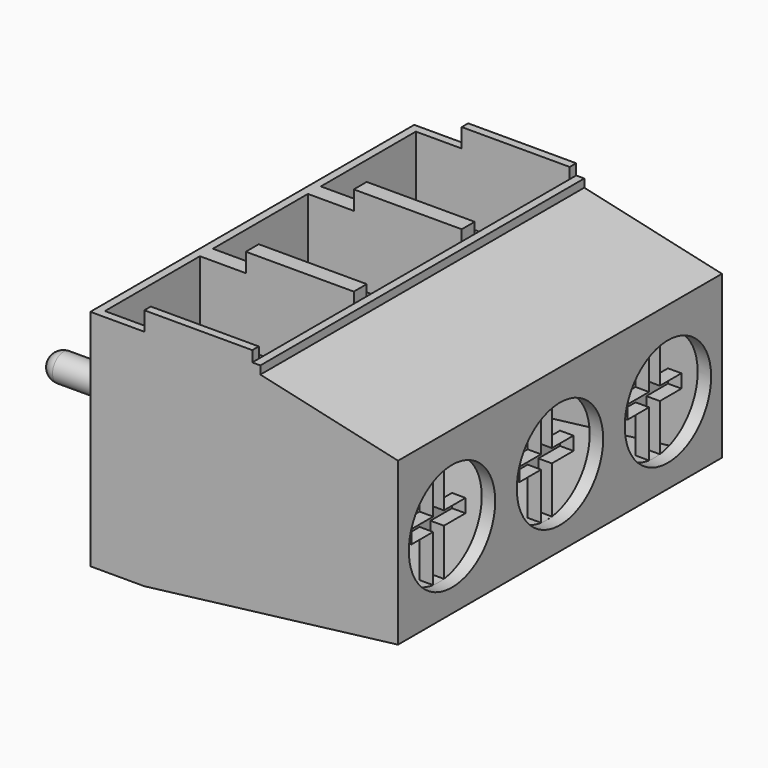
from build123d import *

# Parameters (mm, degrees)
F0_W      = 11.4
F0_H      = 15
F1_DEPTH  = 8.3
F3_DEPTH  = 15.001
F5_DEPTH  = 15
F6_W      = 5.7
F6_H      = 4.4
F7_DEPTH  = 3.2
F8_R      = 0.5
F9_DEPTH  = 3.5
F10_R     = 2
F11_DEPTH = 0.5
F13_DEPTH = 1
F14_R     = 0.5
F15_W     = 3.7
F15_H     = 3.9
F16_DEPTH = 2


with BuildPart() as f1:
    # F0 (on Top) → F1 (new body)
    with BuildSketch(Plane.XY):
        Rectangle(F0_W, F0_H)
    extrude(amount=F1_DEPTH)

    # F2 (on face) → F3 (cut, through all)
    with BuildSketch(Plane.XZ.offset(7.5)):
        Polygon((5.7, 1.15), (-3.7, 0), (5.7, 0), align=None)
        Polygon((0.6, 8.3), (5.7, 7.15), (5.7, 8.3), align=None)
    extrude(amount=-F3_DEPTH, mode=Mode.SUBTRACT)

    # F4 (on face) → F5 (join, through all)
    with BuildSketch(Plane.XZ.offset(7.5)):
        Polygon((-3.7, 9), (-3.7, 8.3), (0.6, 8.3), (0.6, 8.6), (0.3, 8.6), (0.3, 9), align=None)
    extrude(amount=-F5_DEPTH)

    # F6 (on face) → F7 (cut)
    with BuildSketch(Plane.XY.offset(9)):
        with Locations((-2.55, 0)):
            Rectangle(F6_W, F6_H)
        with Locations((-2.55, 5)):
            Rectangle(F6_W, F6_H)
        with Locations((-2.55, -5)):
            Rectangle(F6_W, F6_H)
    extrude(amount=-F7_DEPTH, mode=Mode.SUBTRACT)

    # F8 (on face) → F9 (join)
    with BuildSketch(Plane(origin=(-5.7, 0, 0), x_dir=(0, -1, 0), z_dir=(-1, 0, 0))):
        with Locations((0, 4.5)):
            Circle(F8_R)
        with Locations((5, 4.5)):
            Circle(F8_R)
        with Locations((-5, 4.5)):
            Circle(F8_R)
    extrude(amount=F9_DEPTH)

    # F10 (on face) → F11 (cut)
    with BuildSketch(Plane.YZ.offset(5.7)):
        with Locations((0, 4)):
            Circle(F10_R)
        with Locations((5, 4)):
            Circle(F10_R)
        with Locations((-5, 4)):
            Circle(F10_R)
    extrude(amount=-F11_DEPTH, mode=Mode.SUBTRACT)

    # F12 (on face) → F13 (cut)
    with BuildSketch(Plane.YZ.offset(5.7)):
        with BuildLine():
            ThreePointArc((-4.75, 5.984313), (-5, 6), (-5.25, 5.984313))
            Line((-5.25, 5.984313), (-5.25, 4.25))
            Line((-5.25, 4.25), (-6.25, 4.25))
            Line((-6.25, 4.25), (-6.25, 3.75))
            Line((-6.25, 3.75), (-5.25, 3.75))
            Line((-5.25, 3.75), (-5.25, 2.015687))
            ThreePointArc((-5.25, 2.015687), (-5, 2), (-4.75, 2.015687))
            Line((-4.75, 2.015687), (-4.75, 3.75))
            Line((-4.75, 3.75), (-3.75, 3.75))
            Line((-3.75, 3.75), (-3.75, 4.25))
            Line((-3.75, 4.25), (-4.75, 4.25))
            Line((-4.75, 4.25), (-4.75, 5.984313))
        make_face()
        with BuildLine():
            Line((0.25, 4.25), (0.25, 5.984313))
            ThreePointArc((0.25, 5.984313), (0, 6), (-0.25, 5.984313))
            Line((-0.25, 5.984313), (-0.25, 4.25))
            Line((-0.25, 4.25), (-1.25, 4.25))
            Line((-1.25, 4.25), (-1.25, 3.75))
            Line((-1.25, 3.75), (-0.25, 3.75))
            Line((-0.25, 3.75), (-0.25, 2.015687))
            ThreePointArc((-0.25, 2.015687), (0, 2), (0.25, 2.015687))
            Line((0.25, 2.015687), (0.25, 3.75))
            Line((0.25, 3.75), (1.25, 3.75))
            Line((1.25, 3.75), (1.25, 4.25))
            Line((1.25, 4.25), (0.25, 4.25))
        make_face()
        with BuildLine():
            Line((5.25, 4.25), (5.25, 5.984313))
            ThreePointArc((5.25, 5.984313), (5, 6), (4.75, 5.984313))
            Line((4.75, 5.984313), (4.75, 4.25))
            Line((4.75, 4.25), (3.75, 4.25))
            Line((3.75, 4.25), (3.75, 3.75))
            Line((3.75, 3.75), (4.75, 3.75))
            Line((4.75, 3.75), (4.75, 2.015687))
            ThreePointArc((4.75, 2.015687), (5, 2), (5.25, 2.015687))
            Line((5.25, 2.015687), (5.25, 3.75))
            Line((5.25, 3.75), (6.25, 3.75))
            Line((6.25, 3.75), (6.25, 4.25))
            Line((6.25, 4.25), (5.25, 4.25))
        make_face()
    extrude(amount=-F13_DEPTH, mode=Mode.SUBTRACT)

    # F14
    f14_edges = [f1.edges().sort_by_distance(p)[0] for p in [
        (-9.2, 5.5, 4.5),
        (-9.2, 0.5, 4.5),
        (-9.2, -4.5, 4.5),
    ]]
    fillet(f14_edges, radius=F14_R)

    # F15 (on face) → F16 (cut)
    with BuildSketch(Plane.XY.offset(5.8)):
        with Locations((-2.55, 5)):
            Rectangle(F15_W, F15_H)
        with Locations((-2.55, 0)):
            Rectangle(F15_W, F15_H)
        with Locations((-2.55, -5)):
            Rectangle(F15_W, F15_H)
    extrude(amount=-F16_DEPTH, mode=Mode.SUBTRACT)


solid = f1.part
